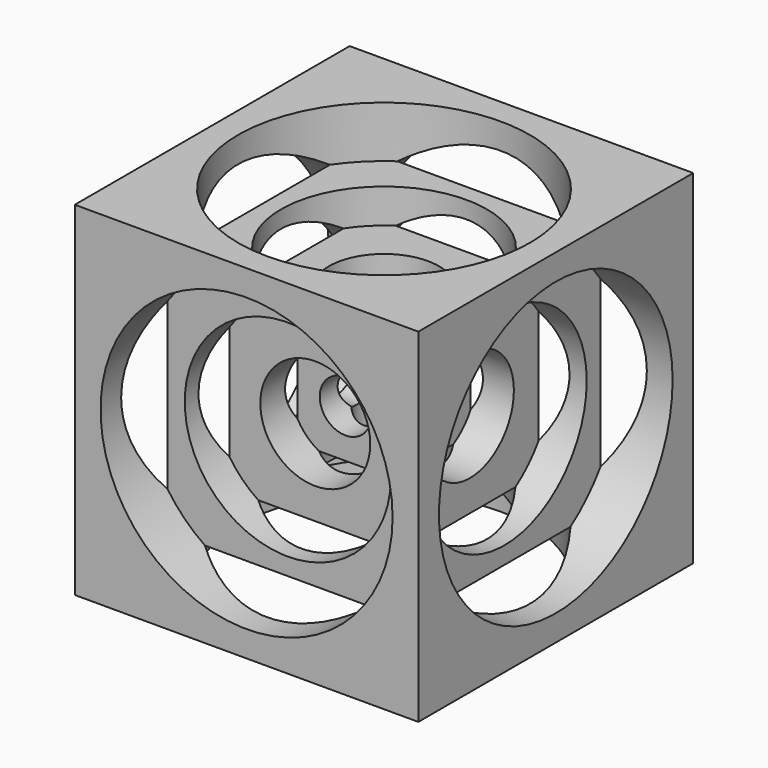
from build123d import *

# Parameters (mm, degrees)
F0_W          = 101.6
F0_H          = 101.6
F1_DEPTH      = 50.8
F1_DEPTH_BACK = 50.8


with BuildPart() as f1:
    # F0 (on Top) → F1 (new body, two sides)
    with BuildSketch(Plane.XY) as f1_sk:
        Rectangle(F0_W, F0_H)
    extrude(amount=F1_DEPTH)
    extrude(f1_sk.sketch, amount=-F1_DEPTH_BACK)

    # F2 (on Top) → F3 (revolve, cut)
    with BuildSketch(Plane.XY):
        Polygon((0, 50.8), (-41.1113, 50.8), (-43.18, 50.8), (-43.18, 35.56), (-30.48, 35.56), (-30.48, 25.4), (-16.256, 25.4), (-16.256, 14.224), (-7.62, 14.224), (-7.62, 0), (0, 0), align=None)
    revolve(axis=Axis((0, 25.4, 0), (0, -1, 0)), mode=Mode.SUBTRACT)

    # F4 (on Top) → F5 (revolve, cut)
    with BuildSketch(Plane.XY):
        Polygon((0, -50.8), (13.884519, -50.8), (43.18, -50.8), (43.18, -35.56), (30.48, -35.56), (30.48, -25.4), (16.256, -25.4), (16.256, -14.224), (7.62, -14.224), (7.62, 0), (0, 0), align=None)
    revolve(axis=Axis((0, -25.4, 0), (0, 1, 0)), mode=Mode.SUBTRACT)

    # F6 (on Top) → F7 (revolve, cut)
    with BuildSketch(Plane.XY):
        Polygon((50.8, 0), (50.8, 16.378657), (50.8, 43.18), (35.56, 43.18), (35.56, 30.48), (25.4, 30.48), (25.4, 16.256), (14.224, 16.256), (14.224, 7.62), (0, 7.62), (0, 0), align=None)
    revolve(axis=Axis((25.4, 0, 0), (-1, 0, 0)), mode=Mode.SUBTRACT)

    # F8 (on Top) → F9 (revolve, cut)
    with BuildSketch(Plane.XY):
        Polygon((-50.8, 0), (-50.8, -43.18), (-35.56, -43.18), (-35.56, -30.48), (-25.4, -30.48), (-25.4, -16.256), (-14.224, -16.256), (-14.224, -7.62), (0, -7.62), (0, 0), align=None)
    revolve(axis=Axis((-25.4, 0, 0), (1, 0, 0)), mode=Mode.SUBTRACT)

    # F10 (on Right) → F11 (revolve, cut)
    with BuildSketch(Plane.YZ):
        Polygon((-7.62, 0), (0, 0), (0, 50.8), (-43.18, 50.8), (-43.18, 35.56), (-30.48, 35.56), (-30.48, 25.4), (-16.256, 25.4), (-16.256, 14.224), (-7.62, 14.224), align=None)
    revolve(axis=Axis((0, 0, 25.4), (0, 0, -1)), mode=Mode.SUBTRACT)

    # F12 (on Right) → F13 (revolve, cut)
    with BuildSketch(Plane.YZ):
        Polygon((7.62, 0), (0, 0), (0, -50.8), (43.18, -50.8), (43.18, -35.56), (30.48, -35.56), (30.48, -25.4), (16.256, -25.4), (16.256, -14.224), (7.62, -14.224), align=None)
    revolve(axis=Axis((0, 0, -25.4), (0, 0, 1)), mode=Mode.SUBTRACT)


solid = f1.part
